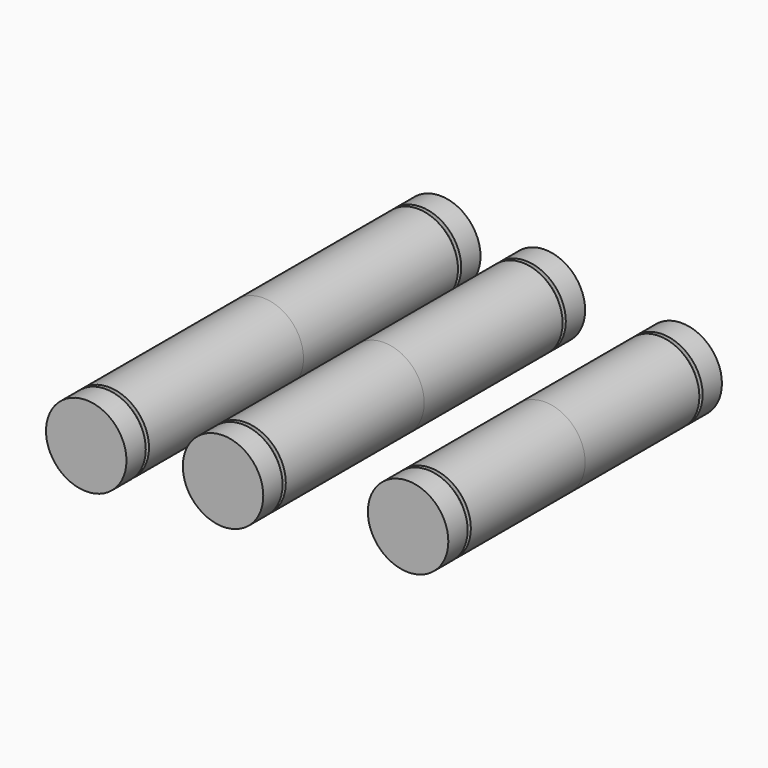
from build123d import *

# Parameters (mm, degrees)
F3_R      = 20
F4_DEPTH  = 110
F6_R      = 20
F6_R_2    = 18
F7_DEPTH  = 2
F9_R      = 20
F10_DEPTH = 100
F12_R     = 20
F12_R_2   = 18
F13_DEPTH = 2
F15_R     = 20
F16_DEPTH = 85
F18_R     = 20
F18_R_2   = 18
F19_DEPTH = 2


with BuildPart() as f4:
    # F3 (on Front) → F4 (new body)
    with BuildSketch(Plane.XZ):
        with Locations((-100, 0)):
            Circle(F3_R)
    extrude(amount=F4_DEPTH)

    # F6 (on offset) → F7 (cut)
    with BuildSketch(Plane.XZ.offset(96)):
        with Locations((-100, 0)):
            Circle(F6_R)
        with Locations((-100, 0)):
            Circle(F6_R_2, mode=Mode.SUBTRACT)
    extrude(amount=F7_DEPTH, mode=Mode.SUBTRACT)

    # F8: F4 across plane


with BuildPart() as f4_1:
    add(f4.part)
    add(f4.part.mirror(Plane.XZ))


with BuildPart() as f10:
    # F9 (on Front) → F10 (new body)
    with BuildSketch(Plane.XZ):
        with Locations((-40, 0)):
            Circle(F9_R)
    extrude(amount=F10_DEPTH)

    # F12 (on offset) → F13 (cut)
    with BuildSketch(Plane.XZ.offset(86)):
        with Locations((-40, 0)):
            Circle(F12_R)
        with Locations((-40, 0)):
            Circle(F12_R_2, mode=Mode.SUBTRACT)
    extrude(amount=F13_DEPTH, mode=Mode.SUBTRACT)

    # F14: F10 across plane


with BuildPart() as f10_1:
    add(f10.part)
    add(f10.part.mirror(Plane.XZ))


with BuildPart() as f16:
    # F15 (on Front) → F16 (new body)
    with BuildSketch(Plane.XZ):
        with Locations((40, 0)):
            Circle(F15_R)
    extrude(amount=F16_DEPTH)

    # F18 (on offset) → F19 (cut)
    with BuildSketch(Plane.XZ.offset(71)):
        with Locations((40, 0)):
            Circle(F18_R)
        with Locations((40, 0)):
            Circle(F18_R_2, mode=Mode.SUBTRACT)
    extrude(amount=F19_DEPTH, mode=Mode.SUBTRACT)

    # F20: F16 across plane


with BuildPart() as f16_1:
    add(f16.part)
    add(f16.part.mirror(Plane.XZ))


solid = Compound([f4_1.part, f10_1.part, f16_1.part])
